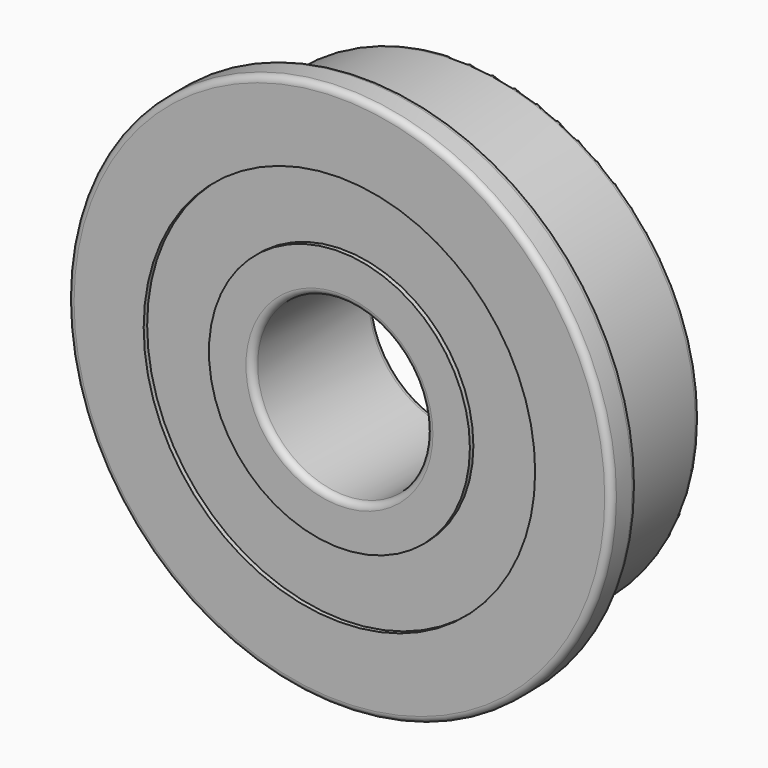
from build123d import *

# Parameters (mm, degrees)
F0_R     = 11
F0_R_2   = 4
F1_DEPTH = 5.5
F2_R     = 12.5
F2_R_2   = 4
F3_DEPTH = 1.5
F4_R     = 9
F4_R_2   = 6
F5_DEPTH = 0.2
F6_R     = 9
F6_R_2   = 6
F7_DEPTH = 0.2
F8_R     = 0.3


with BuildPart() as f1:
    # F0 (on Front) → F1 (new body)
    with BuildSketch(Plane.XZ):
        Circle(F0_R)
        Circle(F0_R_2, mode=Mode.SUBTRACT)
    extrude(amount=F1_DEPTH)

    # F2 (on face) → F3 (join)
    with BuildSketch(Plane.XZ.offset(5.5)):
        Circle(F2_R)
        Circle(F2_R_2, mode=Mode.SUBTRACT)
    extrude(amount=F3_DEPTH)

    # F4 (on face) → F5 (cut)
    with BuildSketch(Plane(origin=(0, 0, 0), x_dir=(-1, 0, 0), z_dir=(0, 1, 0))):
        Circle(F4_R)
        Circle(F4_R_2, mode=Mode.SUBTRACT)
    extrude(amount=-F5_DEPTH, mode=Mode.SUBTRACT)

    # F6 (on face) → F7 (cut)
    with BuildSketch(Plane.XZ.offset(7)):
        Circle(F6_R)
        Circle(F6_R_2, mode=Mode.SUBTRACT)
    extrude(amount=-F7_DEPTH, mode=Mode.SUBTRACT)

    # F8
    f8_edges = [f1.edges().sort_by_distance(p)[0] for p in [
        (-12.5, -7, 0),
        (-12.5, -5.5, 0),
        (-11, 0, 0),
        (-4, -7, 0),
        (-4, 0, 0),
    ]]
    fillet(f8_edges, radius=F8_R)


solid = f1.part
